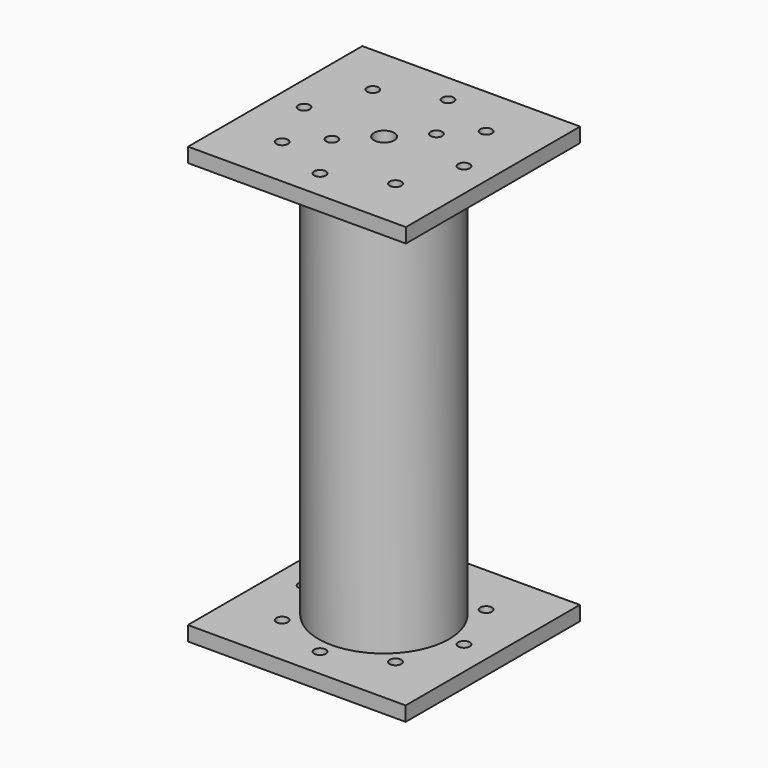
from build123d import *

# Parameters (mm, degrees)
F0_W      = 150
F0_H      = 150
F1_DEPTH  = 10
F2_R      = 45
F3_DEPTH  = 280
F4_R      = 35
F5_DEPTH  = 280
F6_W      = 150
F6_H      = 150
F7_DEPTH  = 10
F8_R      = 7
F9_DEPTH  = 300.001
F10_R     = 4
F11_DEPTH = 25
F12_R     = 4
F13_DEPTH = 300.001


with BuildPart() as f1:
    # F0 (on Top) → F1 (new body)
    with BuildSketch(Plane.XY):
        with Locations((-2.5494610891, -9.9877563774)):
            Rectangle(F0_W, F0_H)
    extrude(amount=F1_DEPTH)

    # F2 (on face) → F3 (join)
    with BuildSketch(Plane.XY.offset(10)):
        with Locations((-2.5494610891, -9.9877563774)):
            Circle(F2_R)
    extrude(amount=F3_DEPTH)

    # F4 (on face) → F5 (cut)
    with BuildSketch(Plane.XY.offset(290)):
        with Locations((-2.5494610891, -9.9877563774)):
            Circle(F4_R)
    extrude(amount=-F5_DEPTH, mode=Mode.SUBTRACT)

    # F6 (on face) → F7 (join)
    with BuildSketch(Plane.XY.offset(290)):
        with Locations((-2.4832710624, -9.8278763674)):
            Rectangle(F6_W, F6_H)
    extrude(amount=F7_DEPTH)

    # F8 (on face) → F9 (cut, through all)
    with BuildSketch(Plane.XY.offset(300)):
        with Locations((-2.4832710624, -9.8278763674)):
            Circle(F8_R)
    extrude(amount=-F9_DEPTH, mode=Mode.SUBTRACT)

    # F10 (on face) → F11 (cut)
    with BuildSketch(Plane.XY.offset(300)):
        with Locations((-22.4832710624, -29.8278763674)):
            Circle(F10_R)
        with Locations((17.5167289376, 10.1721236326)):
            Circle(F10_R)
    extrude(amount=-F11_DEPTH, mode=Mode.SUBTRACT)

    # F12 (on face) → F13 (cut, through all)
    with BuildSketch(Plane.XY.offset(300)):
        with Locations((-2.4832710624, 45.1721236326)):
            Circle(F12_R)
        with Locations((-41.4732710624, 29.1621236326)):
            Circle(F12_R)
        with Locations((-57.4832710624, -9.9877563774)):
            Circle(F12_R)
        with BuildLine():
            ThreePointArc((-44.3345995739, -51.6792048789), (-39.9871328279, -52.5043756512), (-37.5394610891, -48.8178763674))
            ThreePointArc((-37.5394610891, -48.8178763674), (-37.8350506066, -47.3087895651), (-38.6781325776, -46.0227378826))
            ThreePointArc((-38.6781325776, -46.0227378826), (-44.3016981871, -46.0556392694), (-44.3345995739, -51.6792048789))
        make_face()
        with BuildLine():
            ThreePointArc((-38.6781325776, -46.0227378826), (-37.8350506066, -47.3087895651), (-37.5394610891, -48.8178763674))
            ThreePointArc((-37.5394610891, -48.8178763674), (-39.9871328279, -52.5043756512), (-44.3345995739, -51.6792048789))
            ThreePointArc((-44.3345995739, -51.6792048789), (-39.96418426, -52.5884768766), (-37.4732710624, -48.8840663941))
            ThreePointArc((-37.4732710624, -48.8840663941), (-37.7867717786, -47.331738133), (-38.6781325776, -46.0227378826))
        make_face()
        with BuildLine():
            ThreePointArc((-44.3345995739, -51.6792048789), (-44.3016981871, -46.0556392694), (-38.6781325776, -46.0227378826))
            ThreePointArc((-38.6781325776, -46.0227378826), (-44.3678882138, -45.9894492427), (-44.3345995739, -51.6792048789))
        make_face()
        with Locations((52.5167289376, -9.8278763674)):
            Circle(F12_R)
        with Locations((36.5067289376, -48.8178763674)):
            Circle(F12_R)
        with Locations((-2.6431510724, -64.8278763674)):
            Circle(F12_R)
        with Locations((36.5067289376, 29.2283136593)):
            Circle(F12_R)
    extrude(amount=-F13_DEPTH, mode=Mode.SUBTRACT)


solid = f1.part
